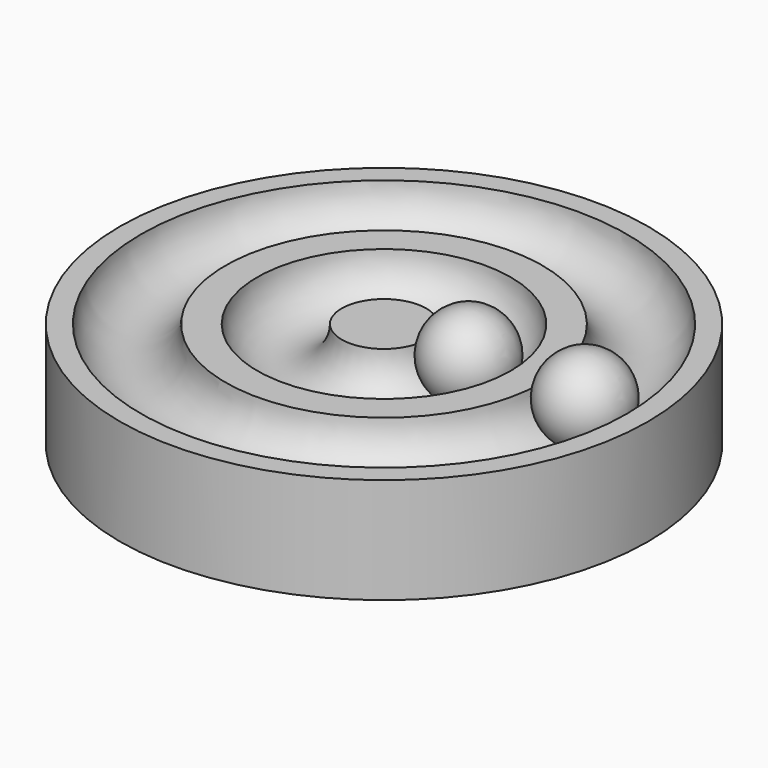
from build123d import *

# Parameters (mm, degrees)
TORUS001_R     = 4
TORUS_R        = 4
CYLINDER_R     = 25
CYLINDER_DEPTH = 10


with BuildPart() as torus001:
    # Torus001 → Torus001 (revolve)
    with BuildSketch(Plane(origin=(0, 0, 10), x_dir=(1, 0, 0), z_dir=(0, -1, 0))):
        with Locations((8, 0)):
            Circle(TORUS001_R)
    revolve(axis=Axis((0, 0, 10), (0, 0, 1)))


with BuildPart() as torus:
    # Torus → Torus (revolve)
    with BuildSketch(Plane(origin=(0, 0, 10), x_dir=(1, 0, 0), z_dir=(0, -1, 0))):
        with Locations((19, 0)):
            Circle(TORUS_R)
    revolve(axis=Axis((0, 0, 10), (0, 0, 1)))


with BuildPart() as cut001:
    # Cylinder → Cylinder (new body)
    with BuildSketch(Plane.XY):
        Circle(CYLINDER_R)
    extrude(amount=CYLINDER_DEPTH)

    # Cut: cut Torus
    add(torus.part, mode=Mode.SUBTRACT)

    # Cut001: cut Torus001
    add(torus001.part, mode=Mode.SUBTRACT)


with BuildPart() as esfera:
    # Sphere → Sphere (revolve)
    with BuildSketch(Plane(origin=(8, 0, 10), x_dir=(1, 0, 0), z_dir=(0, -1, 0))):
        with BuildLine():
            ThreePointArc((0, -4), (4, 0), (0, 4))
            Line((0, 4), (0, -4))
        make_face()
    revolve(axis=Axis((8, 0, 10), (0, 0, 1)))


with BuildPart() as esfera001:
    # Sphere001 → Sphere001 (revolve)
    with BuildSketch(Plane(origin=(19, 0, 10), x_dir=(1, 0, 0), z_dir=(0, -1, 0))):
        with BuildLine():
            ThreePointArc((0, -4), (4, 0), (0, 4))
            Line((0, 4), (0, -4))
        make_face()
    revolve(axis=Axis((19, 0, 10), (0, 0, 1)))


solid = Compound([cut001.part, esfera.part, esfera001.part])
